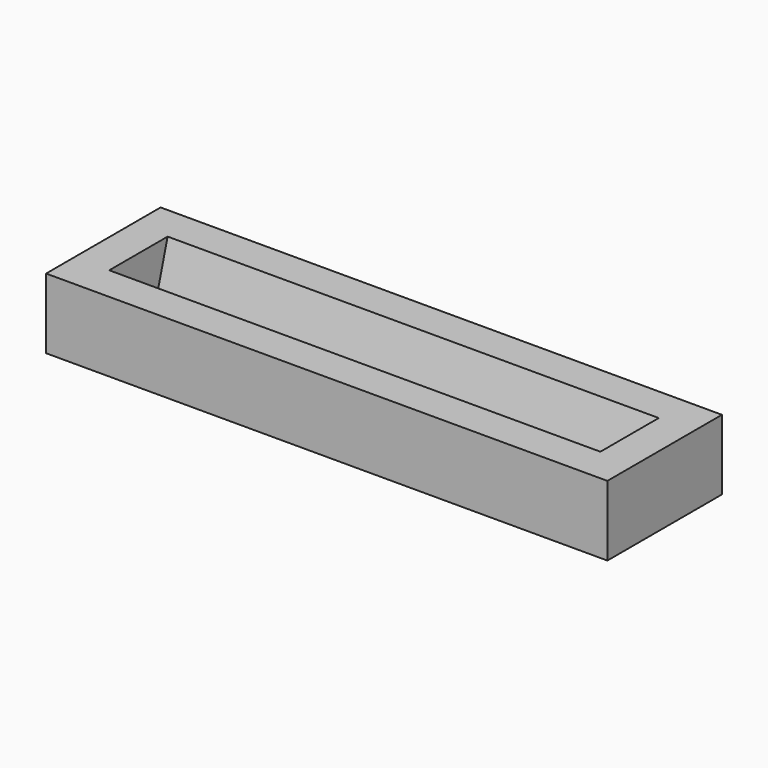
from build123d import *

# Parameters (mm, degrees)
F1_DEPTH  = 35
F3_W      = 14.1933254312
F3_H      = 10
F4_DEPTH  = 5
F6_DEPTH  = 5
F8_DEPTH  = 0.5
F9_DEPTH  = 200
F10_DEPTH = 1.71
F11_DEPTH = 4


with BuildPart() as f1:
    # F0 (on Right) → F1 (new body, symmetric)
    with BuildSketch(Plane.YZ):
        Polygon((4.0779394949, -1.9816074769), (-5.5346774645, 0.7747660812), (-3.7443463919, 7.0183925231), (-6.5346774645, 7.0183925231), (-6.5346774645, -2.9816074769), (7.6586479667, -2.9816074769), (7.6586479667, 7.0183925231), (6.6586479667, 7.0183925231), align=None)
    extrude(amount=F1_DEPTH, both=True)


with BuildPart() as f1_1:
    # F2: moved
    add(f1.part.moved(Location((0, 0, 2.9817))))

    # F3 (on face) → F4 (join)
    with BuildSketch(Plane(origin=(-35, 0, 0), x_dir=(0, -1, 0), z_dir=(-1, 0, 0))):
        with Locations((-0.5619852511, 5.0000925231)):
            Rectangle(F3_W, F3_H)
    extrude(amount=F4_DEPTH)

    # F5 (on face) → F6 (join)
    with BuildSketch(Plane.YZ.offset(35)):
        Polygon((-3.7443463919, 10.0000925231), (-6.5346774645, 10.0000925231), (-6.5346774645, 9.25231e-05), (7.6586479667, 9.25231e-05), (7.6586479667, 10.0000925231), (6.6586479667, 10.0000925231), (4.0779394949, 1.0000925231), (-5.5346774645, 3.7564660812), align=None)
        Polygon((6.6586479667, 10.0000925231), (-3.7443463919, 10.0000925231), (-5.5346774645, 3.7564660812), (4.0779394949, 1.0000925231), align=None)
    extrude(amount=F6_DEPTH)

    # F8 (add): a face of the model
    f8_faces = [f1_1.faces().sort_by_distance(p)[0] for p in [
        (0, -6.5346774645, 5.0000925231),
    ]]
    extrude(f8_faces, amount=F8_DEPTH)

    # F7 (on face) → F9 (cut)
    with BuildSketch(Plane(origin=(0, 0.574809482, 2.00459889), x_dir=(1, 0, 0), z_dir=(0, 0.2756373558, 0.9612616959))):
        Polygon((15, 3.6443041761), (0, 3.6443041761), (-15, 3.6443041761), (-15, -6.3556958239), (15, -6.3556958239), align=None)
    extrude(amount=-F9_DEPTH, mode=Mode.SUBTRACT)

    # F10 (add): a face of the model
    f10_faces = [f1_1.faces().sort_by_distance(p)[0] for p in [
        (0, -7.0346774645, 5.0000925231),
    ]]
    extrude(f10_faces, amount=F10_DEPTH)

    # F11 (add): a face of the model
    f11_faces = [f1_1.faces().sort_by_distance(p)[0] for p in [
        (0, 7.6586479667, 5.0000925231),
    ]]
    extrude(f11_faces, amount=F11_DEPTH)


solid = f1_1.part
